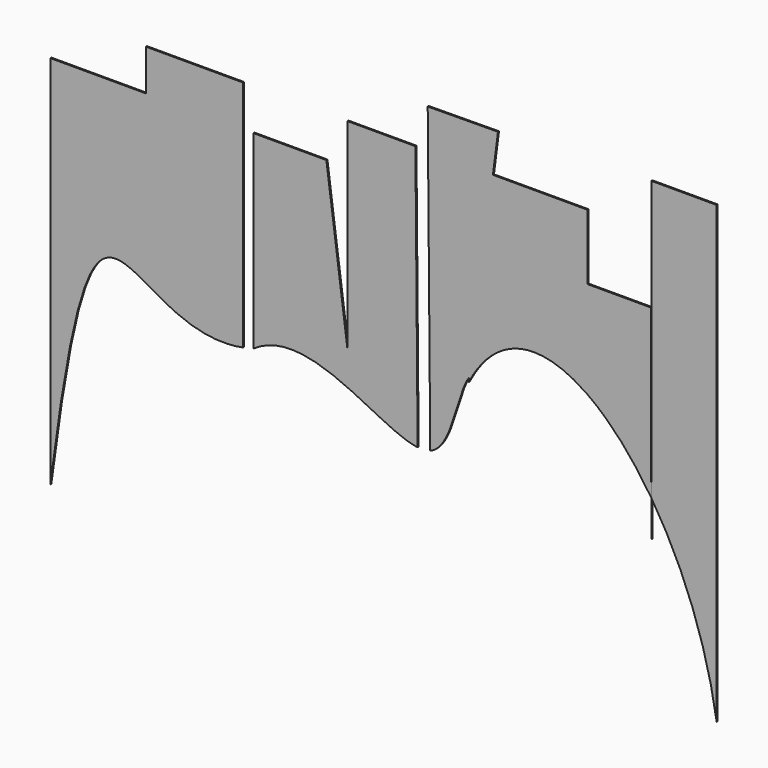
from build123d import *

# Parameters (mm, degrees)
F1_DEPTH = 0.2


with BuildPart() as f1:
    # F0 (on Front) → F1 (new body)
    with BuildSketch(Plane.XZ):
        with BuildLine():
            Line((42.0265160501, 85.5667889118), (42.0265160501, 42.0017038809))
            add(Edge.make_bspline(
                [(52.2103376721, 14.5659443964), (50.6263214067, 24.9277971004), (46.798726715, 34.6027262747), (42.0265160501, 42.0017038809)],
                knots=[0, 0, 0, 0, 17.7886226412, 17.7886226412, 17.7886226412, 17.7886226412], degree=3))
            Line((52.2103376721, 14.5659443964), (52.2103376721, 85.5667889118))
            Line((52.2103376721, 85.5667889118), (42.0265160501, 85.5667889118))
        make_face()
    extrude(amount=F1_DEPTH)


with BuildPart() as f1b:
    # F0 (on Front) → F1, piece 2 (new body)
    with BuildSketch(Plane.XZ):
        with BuildLine():
            add(Edge.make_bspline(
                [(42.0265160501, 42.0017038809), (42.0206728018, 42.0107634271), (42.0148281373, 42.0198195612), (42.008982059, 42.0288722802)],
                knots=[17.7886226412, 17.7886226412, 17.7886226412, 17.7886226412, 17.8104036031, 17.8104036031, 17.8104036031, 17.8104036031], degree=3))
            Line((42.008982059, 42.0288722802), (42.0265160501, 36.3416671753))
            Line((42.0265160501, 36.3416671753), (42.0265160501, 42.0017038809))
        make_face()
    extrude(amount=F1_DEPTH)


with BuildPart() as f1c:
    # F0 (on Front) → F1, piece 3 (new body)
    with BuildSketch(Plane.XZ):
        with BuildLine():
            Line((7.1252807975, 84.4279751182), (7.5213783231, 37.2819311913))
            add(Edge.make_bspline(
                [(13.6021144987, 49.3188639125), (11.6515076083, 46.7039014043), (11.0857627782, 38.6496951546), (7.5213783231, 37.2819311913)],
                knots=[0.0386072225, 0.0386072225, 0.0386072225, 0.0386072225, 0.4168758283, 0.4168758283, 0.4168758283, 0.4168758283], degree=3))
            Line((13.6021144987, 49.3188639125), (17.3013494809, 78.3522799611))
            Line((17.3013494809, 78.3522799611), (18.0872064084, 84.5200717449))
            Line((18.0872064084, 84.5200717449), (7.1252807975, 84.4279751182))
        make_face()
        with BuildLine():
            add(Edge.make_bspline(
                [(14.2473069167, 49.9366654104), (14.0147099203, 49.7959858627), (13.8011992575, 49.5857547877), (13.6021144987, 49.3188639125)],
                knots=[0, 0, 0, 0, 0.0386072225, 0.0386072225, 0.0386072225, 0.0386072225], degree=3))
            Line((13.6021144987, 49.3188639125), (13.5172428563, 48.6527495086))
            add(Edge.make_bspline(
                [(14.2473069167, 49.9366654104), (13.9978515882, 49.5304360784), (13.7543806693, 49.1026062986), (13.5172428563, 48.6527495086)],
                knots=[50.4186135761, 50.4186135761, 50.4186135761, 50.4186135761, 51.5661310279, 51.5661310279, 51.5661310279, 51.5661310279], degree=3))
        make_face()
        with BuildLine():
            Line((17.3013494809, 78.3522799611), (13.6021144987, 49.3188639125))
            add(Edge.make_bspline(
                [(14.2473069167, 49.9366654104), (14.0147099203, 49.7959858627), (13.8011992575, 49.5857547877), (13.6021144987, 49.3188639125)],
                knots=[0, 0, 0, 0, 0.0386072225, 0.0386072225, 0.0386072225, 0.0386072225], degree=3))
            add(Edge.make_bspline(
                [(32.059583813, 52.9832693138), (25.5463812852, 57.5747660918), (18.8695229693, 57.4637835977), (14.2473069167, 49.9366654104)],
                knots=[29.1559946555, 29.1559946555, 29.1559946555, 29.1559946555, 50.4186135761, 50.4186135761, 50.4186135761, 50.4186135761], degree=3))
            Line((32.059583813, 52.9832693138), (32.059583813, 68.1419596076))
            Line((32.059583813, 68.1419596076), (32.059583813, 78.3522799611))
            Line((32.059583813, 78.3522799611), (17.3013494809, 78.3522799611))
        make_face()
        with BuildLine():
            Line((32.059583813, 68.1419596076), (32.059583813, 52.9832693138))
            add(Edge.make_bspline(
                [(42.008982059, 42.0288722802), (38.9637899353, 46.7443870322), (35.5349850604, 50.5332773841), (32.059583813, 52.9832693138)],
                knots=[17.8104036031, 17.8104036031, 17.8104036031, 17.8104036031, 29.1559946555, 29.1559946555, 29.1559946555, 29.1559946555], degree=3))
            Line((42.008982059, 42.0288722802), (41.92847386, 68.1419596076))
            Line((41.92847386, 68.1419596076), (32.059583813, 68.1419596076))
        make_face()
    extrude(amount=F1_DEPTH)


with BuildPart() as f1d:
    # F0 (on Front) → F1, piece 4 (new body)
    with BuildSketch(Plane.XZ):
        with BuildLine():
            Line((-20.0604088604, 71.9313248997), (-20.0604088604, 42.3340015113))
            add(Edge.make_bspline(
                [(-4.6595064663, 41.4433681081), (-9.7169673407, 43.8251994711), (-15.2893241305, 45.6708528822), (-20.0604088604, 42.3340015113)],
                knots=[0.7061028455, 0.7061028455, 0.7061028455, 0.7061028455, 1, 1, 1, 1], degree=3))
            Line((-4.6595064663, 41.4433681081), (-5.3951371364, 47.0165840466))
            Line((-5.3951371364, 47.0165840466), (-8.6837316773, 71.9313248997))
            Line((-8.6837316773, 71.9313248997), (-20.0604088604, 71.9313248997))
        make_face()
        with BuildLine():
            Line((5.5288702365, 37.1059729166), (-4.6595064663, 41.4433681081))
            add(Edge.make_bspline(
                [(5.5288702365, 37.1059729166), (2.8436608893, 37.4454765517), (-0.7544317275, 39.6042575903), (-4.6595064663, 41.4433681081)],
                knots=[0.4791726958, 0.4791726958, 0.4791726958, 0.4791726958, 0.7061028455, 0.7061028455, 0.7061028455, 0.7061028455], degree=3))
        make_face()
        Polygon((-5.3951371364, 47.0165840466), (-4.6595064663, 41.4433681081), (5.5288702365, 37.1059729166), (5.5288702365, 39.9273749396), (5.2304350846, 75.449022689), (5.2060433663, 78.3522799611), (-5.3951371364, 78.3522799611), (-5.3951371364, 71.9313248992), align=None)
    extrude(amount=F1_DEPTH)


with BuildPart() as f1e:
    # F0 (on Front) → F1, piece 5 (new body)
    with BuildSketch(Plane.XZ):
        with BuildLine():
            Line((-51.7602663786, 71.9313248992), (-51.7602663786, 13.3466769951))
            add(Edge.make_bspline(
                [(-51.7602663786, 13.3466769951), (-44.50341147, 70.3589431095), (-40.8203894278, 38.3379522292), (-21.6797601847, 41.9511213831)],
                knots=[0, 0, 0, 0, 41.8022676431, 41.8022676431, 41.8022676431, 41.8022676431], degree=3))
            Line((-21.6797601847, 41.9511213831), (-21.7223176733, 47.0165840466))
            Line((-21.7223176733, 47.0165840466), (-21.7223176733, 71.9313248992))
            Line((-21.7223176733, 71.9313248992), (-21.7223176733, 78.3522799611))
            Line((-21.7223176733, 78.3522799611), (-36.8462726475, 78.3522799611))
            Line((-36.8462726475, 78.3522799611), (-36.8462726475, 71.9313248992))
            Line((-36.8462726475, 71.9313248992), (-51.7602663786, 71.9313248992))
        make_face()
        Polygon((-21.7223176733, 47.0165840466), (-21.6797601847, 41.9511213831), (-21.7223176733, 71.9313248992), align=None)
    extrude(amount=F1_DEPTH)


solid = Compound([f1.part, f1b.part, f1c.part, f1d.part, f1e.part])
